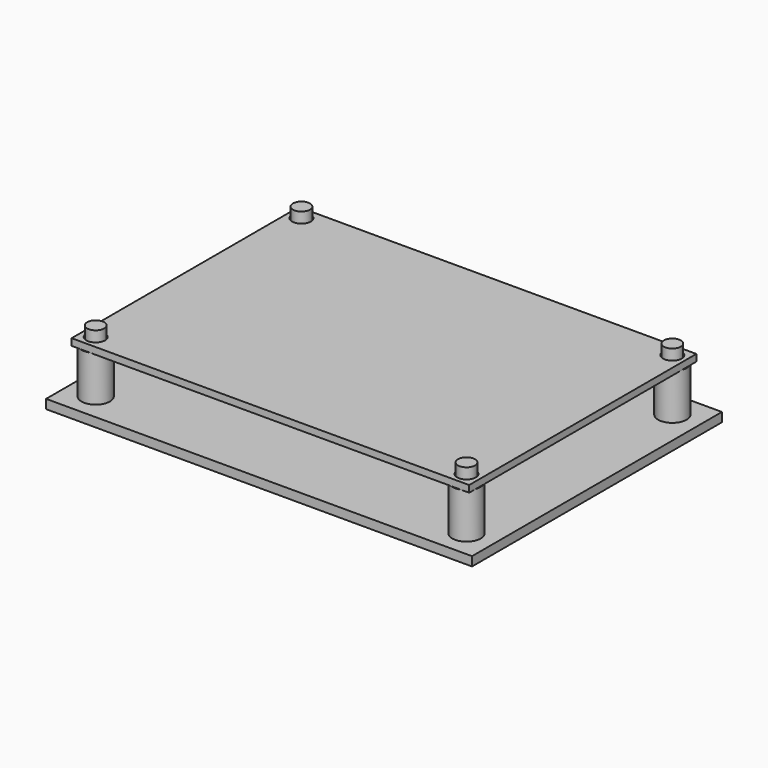
from build123d import *

# Parameters (mm, degrees)
SKETCH_W     = 70
SKETCH_H     = 50
PAD_DEPTH    = 1.2
SKETCH001_R  = 1.65
POCKET_DEPTH = 1.2
SKETCH002_W  = 75
SKETCH002_H  = 55
PAD001_DEPTH = 1.6
SKETCH003_R  = 2.5
PAD002_DEPTH = 8
SKETCH004_R  = 1.5
PAD003_DEPTH = 3


with BuildPart() as pcb:
    # Sketch → Pad (new body)
    with BuildSketch(Plane.XY):
        Rectangle(SKETCH_W, SKETCH_H)
    extrude(amount=PAD_DEPTH)

    # Sketch001 (on Face6 of Pad) → Pocket (cut)
    with BuildSketch(Plane.XY.offset(1.2)):
        with Locations((-32.65, 22.65)):
            Circle(SKETCH001_R)
        with Locations((32.65, 22.65)):
            Circle(SKETCH001_R)
        with Locations((-32.65, -22.65)):
            Circle(SKETCH001_R)
        with Locations((32.65, -22.65)):
            Circle(SKETCH001_R)
    extrude(amount=-POCKET_DEPTH, mode=Mode.SUBTRACT)


with BuildPart() as pcb_1:
    # Body placement: moved
    add(pcb.part.moved(Location((0, 0, 9.6))))


with BuildPart() as case_bottom:
    # Sketch002 → Pad001 (new body)
    with BuildSketch(Plane.XY):
        Rectangle(SKETCH002_W, SKETCH002_H)
    extrude(amount=PAD001_DEPTH)

    # Sketch003 (on Face6 of Pad001) → Pad002 (join)
    with BuildSketch(Plane.XY.offset(1.6)):
        with Locations((-32.65, 22.65)):
            Circle(SKETCH003_R)
        with Locations((-32.65, -22.65)):
            Circle(SKETCH003_R)
        with Locations((32.65, 22.65)):
            Circle(SKETCH003_R)
        with Locations((32.65, -22.65)):
            Circle(SKETCH003_R)
    extrude(amount=PAD002_DEPTH)

    # Sketch004 (on Face14 of Pad002) → Pad003 (join)
    with BuildSketch(Plane.XY.offset(9.6)):
        with Locations((-32.65, -22.65)):
            Circle(SKETCH004_R)
        with Locations((-32.65, 22.65)):
            Circle(SKETCH004_R)
    pad003 = extrude(amount=PAD003_DEPTH)

    # Mirrored: Pad003 across Sketch004 V_Axis
    add(pad003.mirror(Plane(origin=(0, 0, 9.6), x_dir=(0, 0, 1), z_dir=(1, 0, 0))))


solid = Compound([pcb_1.part, case_bottom.part])
